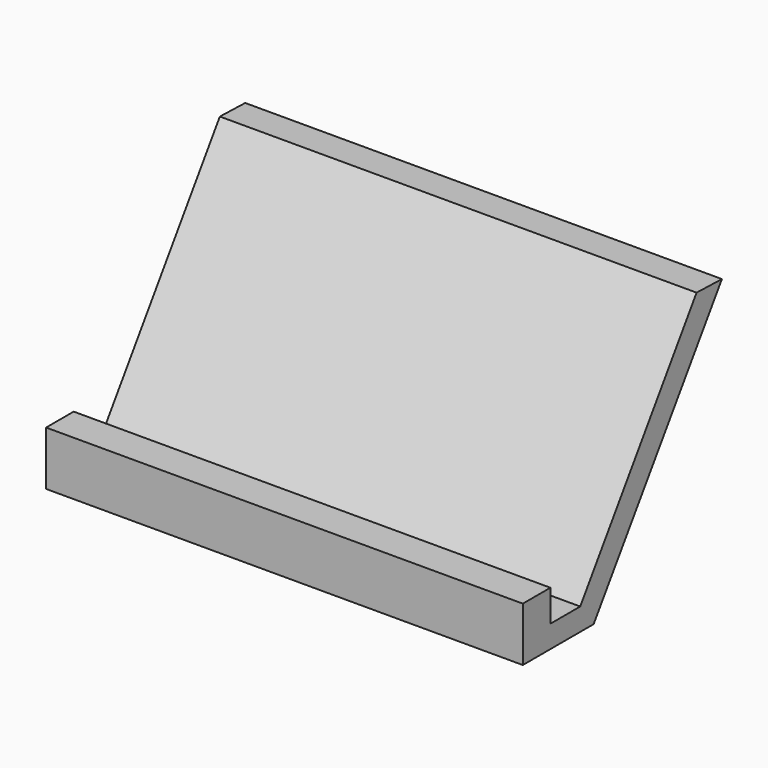
from build123d import *

# Parameters (mm, degrees)
F1_DEPTH      = 76.2
F1_DEPTH_BACK = 76.2


with BuildPart() as f1:
    # F0 (on Right) → F1 (new body, two sides)
    with BuildSketch(Plane.YZ) as f1_sk:
        Polygon((5.3638, -44.847321), (56.617878, 31.437822), (46.486259, 31.735811), (0, -37.695587), (-11.919553, -37.695587), (-11.919553, -27.563969), (-22.94514, -27.563969), (-22.94514, -44.847321), align=None)
    extrude(amount=F1_DEPTH)
    extrude(f1_sk.sketch, amount=-F1_DEPTH_BACK)


solid = f1.part
